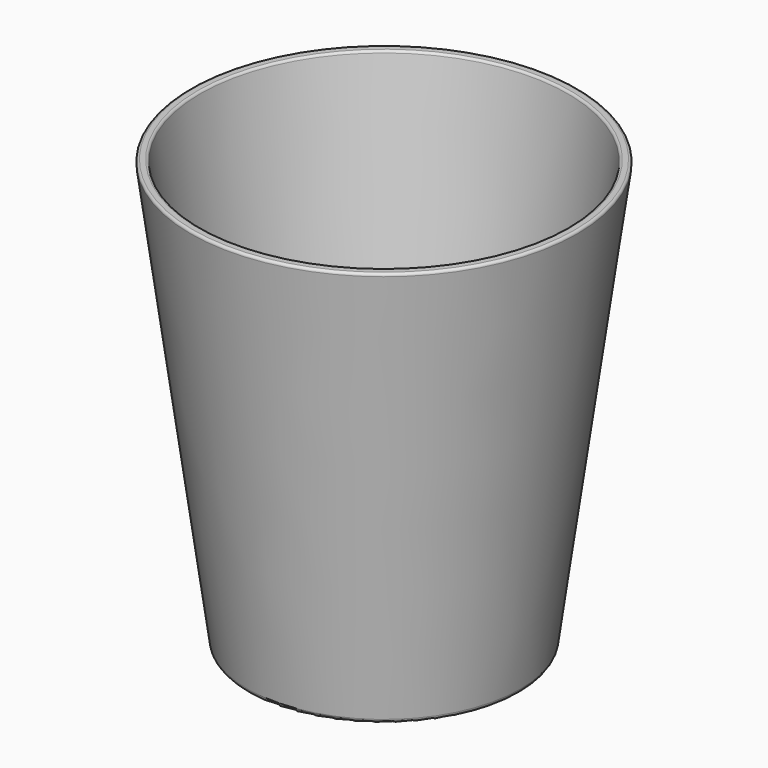
from build123d import *


with BuildPart() as f1:
    # F0 (on Front) → F1 (revolve)
    with BuildSketch(Plane.XZ):
        with BuildLine():
            Line((0, 3.175), (0, 0))
            Line((0, 0), (43.064285, 0))
            ThreePointArc((43.064285, 0), (44.108232, 0.391535), (44.637228, 1.373008))
            Line((44.637228, 1.373008), (63.377137, 138.799004))
            ThreePointArc((63.377137, 138.799004), (63.188648, 139.428223), (62.590665, 139.7))
            Line((62.590665, 139.7), (60.988474, 139.7))
            ThreePointArc((60.988474, 139.7), (60.4665, 139.504232), (60.202002, 139.013496))
            Line((60.202002, 139.013496), (41.865799, 4.548008))
            ThreePointArc((41.865799, 4.548008), (41.336803, 3.566535), (40.292856, 3.175))
            Line((40.292856, 3.175), (0, 3.175))
        make_face()
    revolve(axis=Axis((0, 0, 1.5875), (0, 0, -1)))


solid = f1.part
